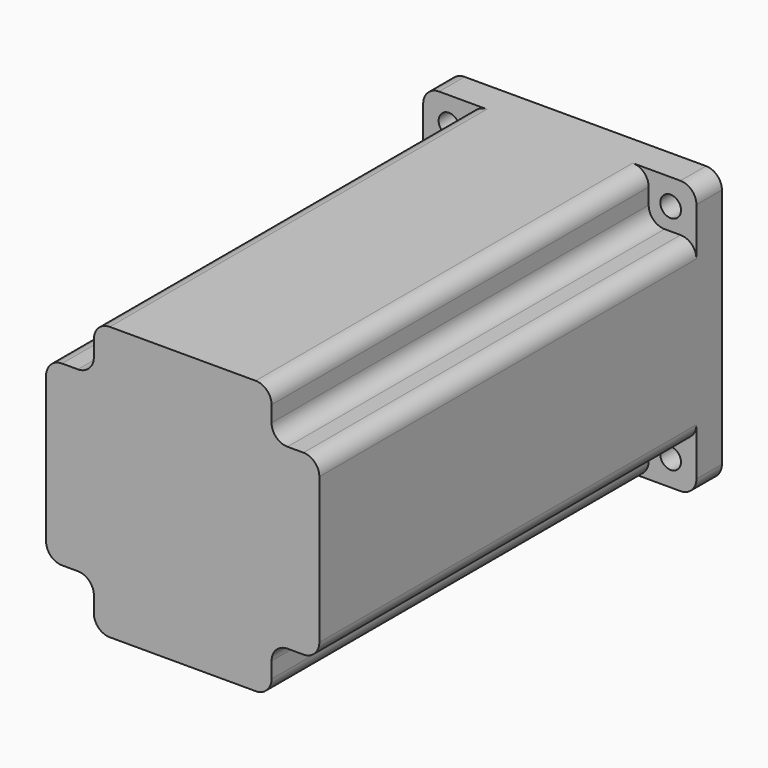
from build123d import *

# Parameters (mm, degrees)
F1_DEPTH  = 158
F2_W      = 15
F2_H      = 15
F3_DEPTH  = 148
F4_R      = 3.25
F5_DEPTH  = 10
F6_R      = 5
F7_R      = 36.5
F8_DEPTH  = 1.6
F9_R      = 7
F10_DEPTH = 35
F12_DEPTH = 25


with BuildPart() as f1:
    # F0 (on Front) → F1 (new body)
    with BuildSketch(Plane.XZ):
        with BuildLine():
            Line((37.9, 42.9), (-37.9, 42.9))
            ThreePointArc((-37.9, 42.9), (-41.4355339059, 41.4355339059), (-42.9, 37.9))
            Line((-42.9, 37.9), (-42.9, -37.9))
            ThreePointArc((-42.9, -37.9), (-41.4355339059, -41.4355339059), (-37.9, -42.9))
            Line((-37.9, -42.9), (37.9, -42.9))
            ThreePointArc((37.9, -42.9), (41.4355339059, -41.4355339059), (42.9, -37.9))
            Line((42.9, -37.9), (42.9, 37.9))
            ThreePointArc((42.9, 37.9), (41.4355339059, 41.4355339059), (37.9, 42.9))
        make_face()
    extrude(amount=F1_DEPTH)

    # F2 (on face) → F3 (cut)
    with BuildSketch(Plane.XZ.offset(158)):
        with Locations((35.4, 35.4)):
            Rectangle(F2_W, F2_H)
        with Locations((-35.4, 35.4)):
            Rectangle(F2_W, F2_H)
        with Locations((-35.4, -35.4)):
            Rectangle(F2_W, F2_H)
        with Locations((35.4, -35.4)):
            Rectangle(F2_W, F2_H)
    extrude(amount=-F3_DEPTH, mode=Mode.SUBTRACT)

    # F4 (on face) → F5 (cut, through all)
    with BuildSketch(Plane(origin=(0, 0, 0), x_dir=(-1, 0, 0), z_dir=(0, 1, 0))):
        with Locations((34.8, 34.8)):
            Circle(F4_R)
        with Locations((-34.8, 34.8)):
            Circle(F4_R)
        with Locations((34.8, -34.8)):
            Circle(F4_R)
        with Locations((-34.8, -34.8)):
            Circle(F4_R)
    extrude(amount=-F5_DEPTH, mode=Mode.SUBTRACT)

    # F6
    f6_edges = [f1.edges().sort_by_distance(p)[0] for p in [
        (-42.9, -84, 27.9),
        (-42.9, -84, -27.9),
        (-27.9, -84, -27.9),
        (-27.9, -84, -42.9),
        (27.9, -84, -42.9),
        (-27.9, -84, 42.9),
        (27.9, -84, -27.9),
        (42.9, -84, -27.9),
        (42.9, -84, 27.9),
        (27.9, -84, 42.9),
        (27.9, -84, 27.9),
        (-27.9, -84, 27.9),
    ]]
    fillet(f6_edges, radius=F6_R)

    # F7 (on face) → F8 (join)
    with BuildSketch(Plane(origin=(0, 0, 0), x_dir=(-1, 0, 0), z_dir=(0, 1, 0))):
        Circle(F7_R)
    extrude(amount=F8_DEPTH)


with BuildPart() as f10:
    # F9 (on face) → F10 (new body)
    with BuildSketch(Plane(origin=(0, 0, 0), x_dir=(-1, 0, 0), z_dir=(0, 1, 0))):
        Circle(F9_R)
    extrude(amount=F10_DEPTH)

    # F11 (on face) → F12 (cut)
    with BuildSketch(Plane(origin=(0, 35, 0), x_dir=(-1, 0, 0), z_dir=(0, 1, 0))):
        Polygon((-14.5420123405, 12.7583807334), (-14.5420123405, 6), (6, 6), (6, -12.0489969126), (13.1983235478, -12.4650839716), (13.1983235478, 12.7583807334), align=None)
    extrude(amount=-F12_DEPTH, mode=Mode.SUBTRACT)


solid = Compound([f1.part, f10.part])
